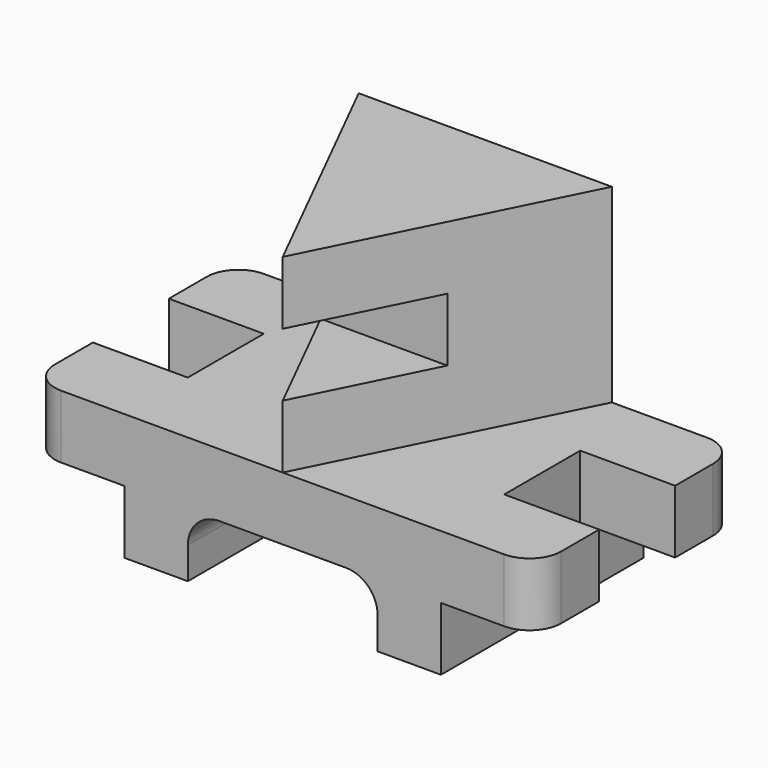
from build123d import *

# Parameters (mm, degrees)
F1_DEPTH = 101.6
F3_DEPTH = 76.2
F4_W     = 50.8
F4_H     = 25.4
F5_DEPTH = 203.201
F6_W     = 38.1
F6_H     = 38.1
F7_DEPTH = 50.801
F8_R     = 12.7


with BuildPart() as f1:
    # F0 (on Front) → F1 (new body)
    with BuildSketch(Plane.XZ):
        with BuildLine():
            Line((203.2, 0), (0, 0))
            Line((0, 0), (0, -25.4))
            Line((0, -25.4), (38.1, -25.4))
            Line((38.1, -25.4), (38.1, -50.8))
            Line((38.1, -50.8), (63.5, -50.8))
            Line((63.5, -50.8), (63.5, -38.1))
            ThreePointArc((63.5, -38.1), (67.219744, -29.119744), (76.2, -25.4))
            Line((76.2, -25.4), (127, -25.4))
            ThreePointArc((127, -25.4), (135.980256, -29.119744), (139.7, -38.1))
            Line((139.7, -38.1), (139.7, -50.8))
            Line((139.7, -50.8), (165.1, -50.8))
            Line((165.1, -50.8), (165.1, -25.4))
            Line((165.1, -25.4), (203.2, -25.4))
            Line((203.2, -25.4), (203.2, 0))
        make_face()
    extrude(amount=F1_DEPTH)

    # F2 (on Top) → F3 (join)
    with BuildSketch(Plane.XY):
        Polygon((152.4, 0), (50.8, 0), (101.6, -101.6), align=None)
    extrude(amount=F3_DEPTH)

    # F4 (on Right) → F5 (cut, through all)
    with BuildSketch(Plane.YZ):
        with Locations((-76.2, 38.1)):
            Rectangle(F4_W, F4_H)
    extrude(amount=F5_DEPTH, mode=Mode.SUBTRACT)

    # F6 (on Top) → F7 (cut, through all)
    with BuildSketch(Plane.XY):
        with Locations((19.05, -50.8)):
            Rectangle(F6_W, F6_H)
        with Locations((184.15, -50.8)):
            Rectangle(F6_W, F6_H)
    extrude(amount=-F7_DEPTH, mode=Mode.SUBTRACT)

    # F8
    f8_edges = [f1.edges().sort_by_distance(p)[0] for p in [
        (0, -101.6, -12.7),
        (0, 0, -12.7),
        (203.2, 0, -12.7),
        (203.2, -101.6, -12.7),
    ]]
    fillet(f8_edges, radius=F8_R)


solid = f1.part
